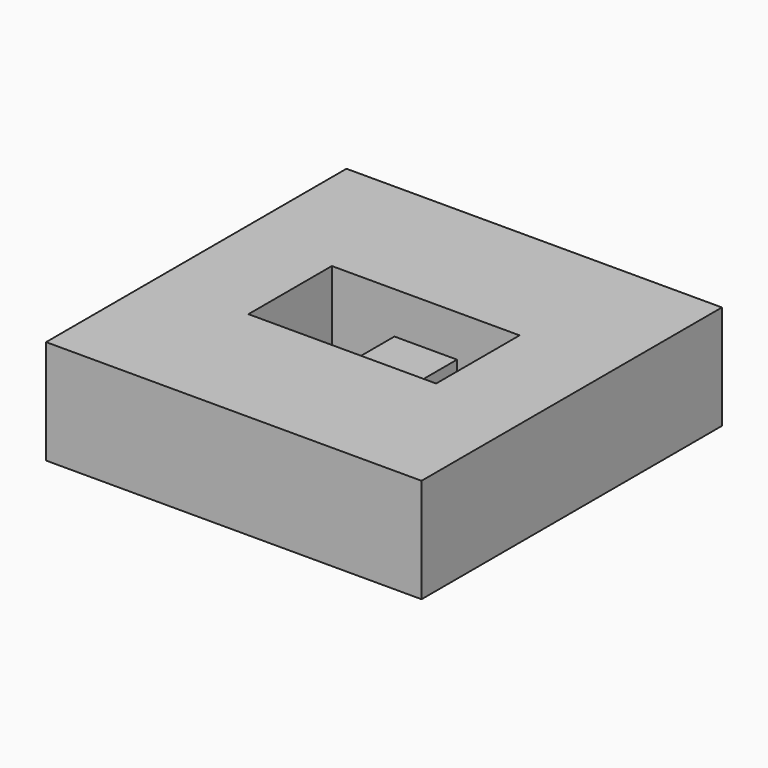
from build123d import *

# Parameters (mm, degrees)
F0_W     = 18
F0_H     = 18
F0_W_2   = 3
F0_H_2   = 5
F1_DEPTH = 5
F2_W     = 3
F2_H     = 5
F3_DEPTH = 2


with BuildPart() as f1:
    # F0 (on Top) → F1 (new body)
    with BuildSketch(Plane.XY):
        Rectangle(F0_W, F0_H)
        Polygon((1.5, 2.5), (4.5, 2.5), (4.5, -2.5), (1.5, -2.5), (-1.5, -2.5), (-4.5, -2.5), (-4.5, 2.5), (-1.5, 2.5), align=None, mode=Mode.SUBTRACT)
        Rectangle(F0_W_2, F0_H_2)
    extrude(amount=F1_DEPTH)

    # F2 (on face) → F3 (cut)
    with BuildSketch(Plane.XY.offset(5)):
        Rectangle(F2_W, F2_H)
    extrude(amount=-F3_DEPTH, mode=Mode.SUBTRACT)


solid = f1.part
